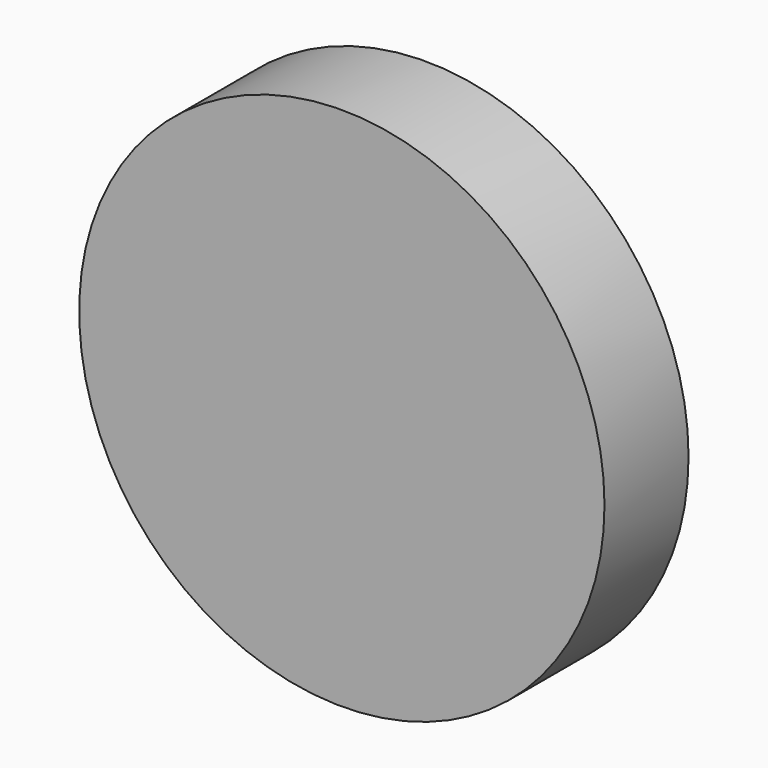
from build123d import *

# Parameters (mm, degrees)
F0_R          = 63.5
F1_DEPTH      = 12.7
F1_DEPTH_BACK = 12.7
F2_R          = 12.7
F3_DEPTH      = 25.4


with BuildPart() as f1:
    # F0 (on Front) → F1 (new body, two sides)
    with BuildSketch(Plane.XZ) as f1_sk:
        Circle(F0_R)
    extrude(amount=F1_DEPTH)
    extrude(f1_sk.sketch, amount=-F1_DEPTH_BACK)

    # F2 (on Front) → F3 (cut)
    with BuildSketch(Plane.XZ):
        Circle(F2_R)
    extrude(amount=-F3_DEPTH, mode=Mode.SUBTRACT)


solid = f1.part
